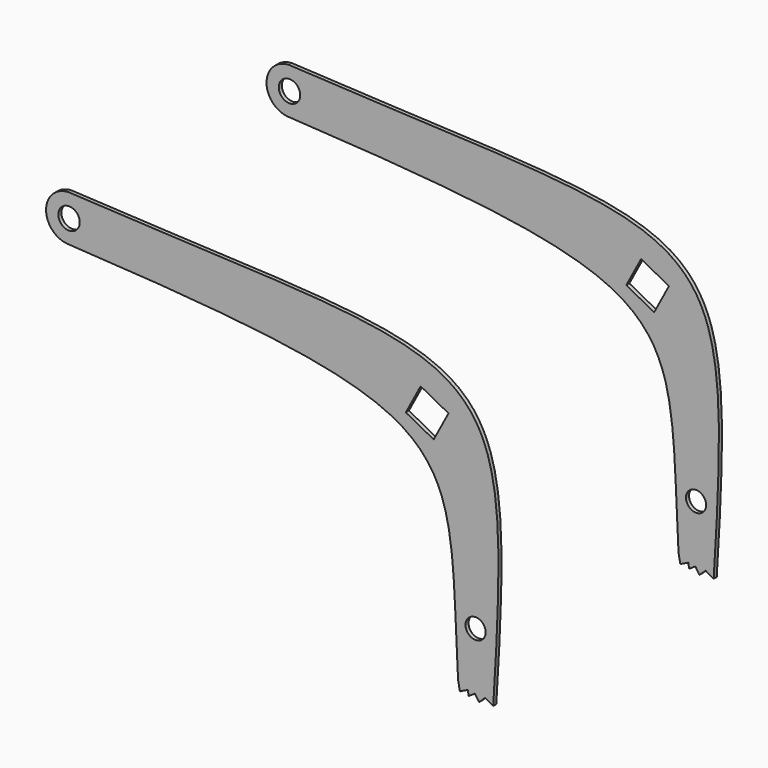
from build123d import *

# Parameters (mm, degrees)
SKETCH001_R   = 17.78
SKETCH001_R_2 = 16.7005
PAD_DEPTH     = 6.35
ARRAY_Y_COUNT = 2
ARRAY_Y_PITCH = 457.2


with BuildPart() as part:
    # Sketch001 → Pad (new body)
    with BuildSketch(Plane.XZ):
        with BuildLine():
            ThreePointArc((289.865614, 544.821345), (252.599226, 508.011813), (287.305859, 468.779493))
            add(Edge.make_bspline(
                [(287.305859, 468.779493), (966.820068, 431.461426), (917.191528, 388.050446), (936.123901, 42.472468)],
                knots=[0, 0, 0, 0, 1, 1, 1, 1], degree=3))
            Line((936.123901, 42.472468), (939.159851, 26.913222))
            Line((939.159851, 26.913222), (952.345032, 33.276505))
            Line((952.345032, 33.276505), (953.632019, 24.715975))
            Line((953.632019, 24.715975), (964.045593, 31.588909))
            Line((964.045593, 31.588909), (970.918518, 21.383656))
            Line((970.918518, 21.383656), (981.123779, 30.964098))
            Line((981.123779, 30.964098), (994.453064, 23.466351))
            add(Edge.make_bspline(
                [(289.865614, 544.821345), (993.47406, 505.02948), (1028.800171, 571.399536), (994.453064, 23.466351)],
                knots=[0, 0, 0, 0, 1, 1, 1, 1], degree=3))
        make_face()
        with Locations((290.677658, 506.73)):
            Circle(SKETCH001_R, mode=Mode.SUBTRACT)
        Polygon((849.477658, 405.13), (874.042288, 451.32935), (920.241638, 426.76472), (895.677008, 380.56537), align=None, mode=Mode.SUBTRACT)
        with Locations((965.2, 127)):
            Circle(SKETCH001_R_2, mode=Mode.SUBTRACT)
    extrude(amount=PAD_DEPTH)

    # Array Y: part ×2


with BuildPart() as part_1:
    add(part.part)
    with Locations(*[(0, i * ARRAY_Y_PITCH, 0) for i in range(1, ARRAY_Y_COUNT)]):
        add(part.part)


solid = part_1.part
